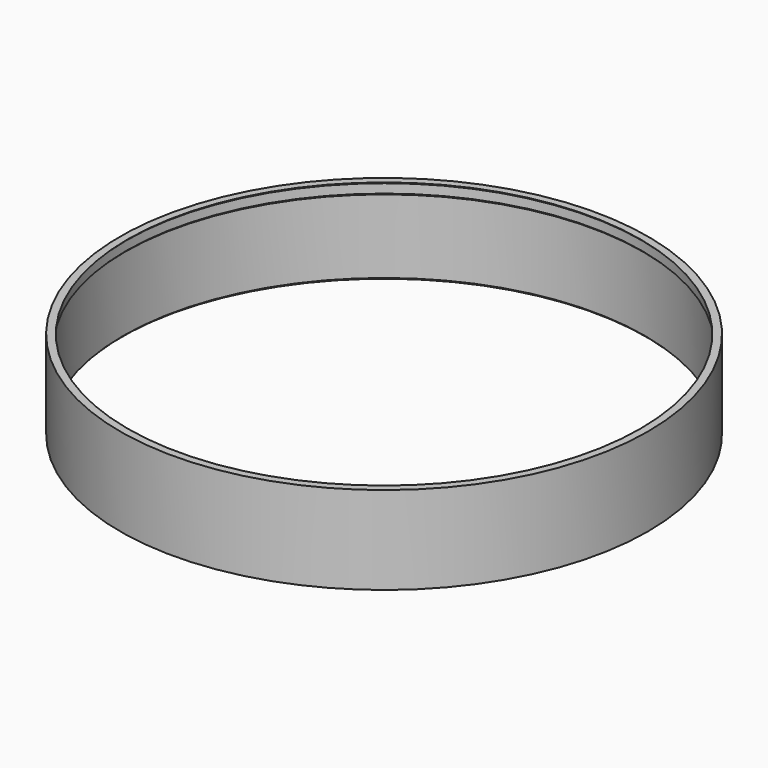
from build123d import *

# Parameters (mm, degrees)
SKETCH020_R     = 86
POCKET013_DEPTH = 25
CHAMFER003_SIZE = 0.5


with BuildPart() as part:
    # Sketch019 → Revolution (revolve)
    with BuildSketch(Plane.XZ):
        Polygon((85, 0), (85, 28.5), (84.5, 29), (87, 29), (87, 0), align=None)
    revolve(axis=Axis((0, 0, 0), (0, 0, 1)))

    # Sketch020 (on Face5 of Revolution) → Pocket013 (cut)
    with BuildSketch(Plane(origin=(0, 0, 0), x_dir=(1, 0, 0), z_dir=(0, 0, -1))):
        Circle(SKETCH020_R)
    extrude(amount=-POCKET013_DEPTH, mode=Mode.SUBTRACT)

    # Chamfer003
    chamfer003_edges = [part.edges().sort_by_distance(p)[0] for p in [
        (-85, 0, 25),
        (-86, 0, 0),
    ]]
    chamfer(chamfer003_edges, length=CHAMFER003_SIZE)


solid = part.part
